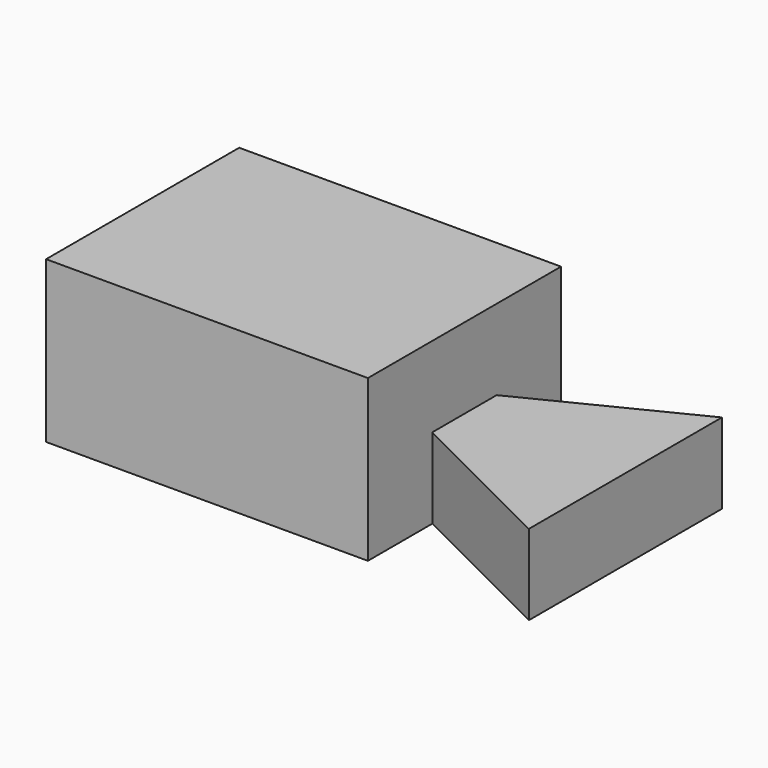
from build123d import *

# Parameters (mm, degrees)
F0_W     = 152.4
F0_H     = 50.8
F1_DEPTH = 76.2
F3_DEPTH = 50.8
F5_DEPTH = 25.4


with BuildPart() as f1:
    # F0 (on Front) → F1 (new body)
    with BuildSketch(Plane.XZ):
        with Locations((76.2, 25.4)):
            Rectangle(F0_W, F0_H)
    extrude(amount=-F1_DEPTH)

    # F2 (on face) → F3 (cut)
    with BuildSketch(Plane.XY.offset(50.8)):
        Polygon((101.6, 25.4), (101.6, 0), (152.4, 0), align=None)
        Polygon((152.4, 76.2), (101.6, 76.2), (101.6, 50.8), align=None)
    extrude(amount=-F3_DEPTH, mode=Mode.SUBTRACT)

    # F4 (on face) → F5 (cut)
    with BuildSketch(Plane.XY.offset(50.8)):
        Polygon((152.4, 76.2), (101.6, 50.8), (101.6, 25.4), (152.4, 0), align=None)
    extrude(amount=-F5_DEPTH, mode=Mode.SUBTRACT)


solid = f1.part
